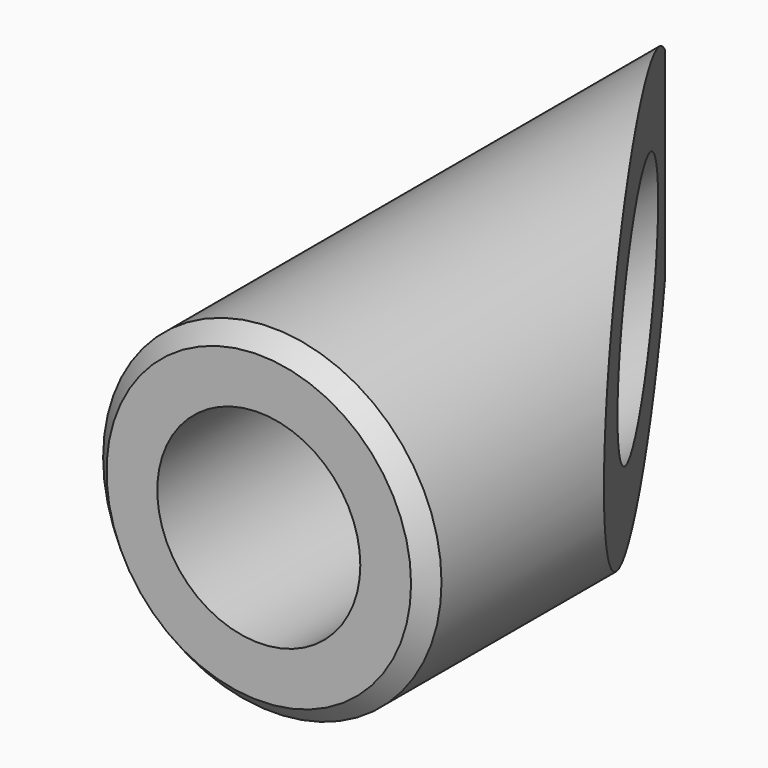
from build123d import *

# Parameters (mm, degrees)
F0_W     = 10
F0_H     = 40
F3_DEPTH = 25
F4_SIZE  = 1
F5_R     = 6
F6_DEPTH = 50


with BuildPart() as f1:
    # F0 (on Top) → F1 (revolve)
    with BuildSketch(Plane.XY):
        with Locations((5, 20)):
            Rectangle(F0_W, F0_H)
    revolve(axis=Axis((0, 20, 0), (0, -1, 0)))

    # F2 (on Top) → F3 (cut, symmetric)
    with BuildSketch(Plane.XY):
        Polygon((10, 40), (-8, 40), (10, 13), align=None)
    extrude(amount=F3_DEPTH, both=True, mode=Mode.SUBTRACT)

    # F4
    f4_edges = [f1.edges().sort_by_distance(p)[0] for p in [
        (-10, 0, 0),
    ]]
    chamfer(f4_edges, length=F4_SIZE)

    # F5 (on face) → F6 (cut)
    with BuildSketch(Plane.XZ):
        Circle(F5_R)
    extrude(amount=-F6_DEPTH, mode=Mode.SUBTRACT)


solid = f1.part
